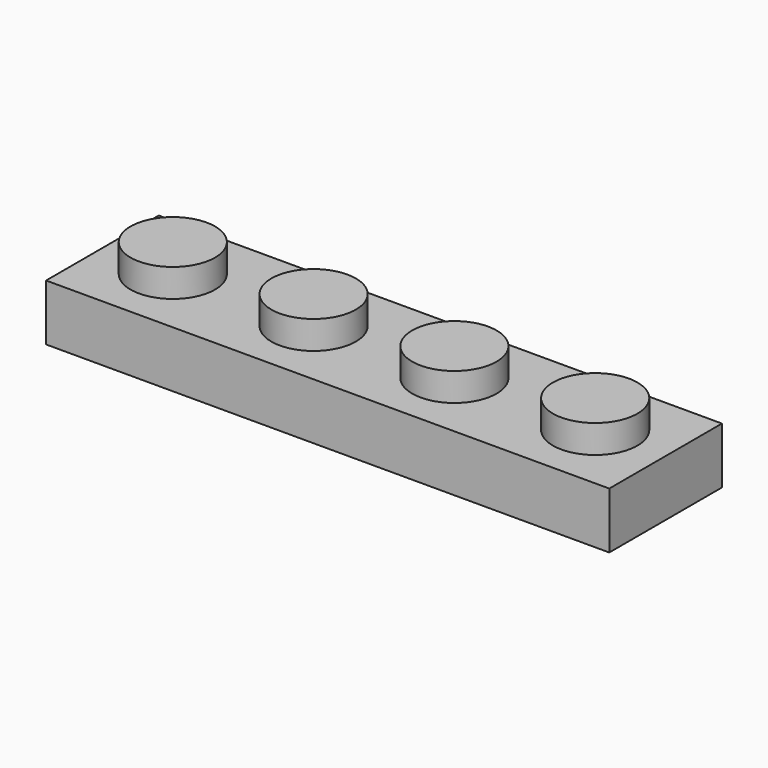
from build123d import *

# Parameters (mm, degrees)
F0_W     = 32
F0_H     = 8
F0_R     = 2.4
F0_R_2   = 1.6
F1_DEPTH = 3.2
F2_T     = -1.6
F3_DEPTH = 1.6
F4_START = 3.2
F4_DEPTH = 1.6


with BuildPart() as f1:
    # F0 (on Top) → F1 (new body)
    with BuildSketch(Plane.XY):
        Rectangle(F0_W, F0_H)
        with Locations((-12, 0)):
            Circle(F0_R, mode=Mode.SUBTRACT)
        with BuildLine():
            ThreePointArc((-6.4, 0), (-8, -1.6), (-9.6, 0))
            ThreePointArc((-9.6, 0), (-8, 1.6), (-6.4, 0))
        make_face(mode=Mode.SUBTRACT)
        with BuildLine():
            ThreePointArc((-1.6, 0), (-4, -2.4), (-6.4, 0))
            ThreePointArc((-6.4, 0), (-4, 2.4), (-1.6, 0))
        make_face(mode=Mode.SUBTRACT)
        with BuildLine():
            ThreePointArc((1.6, 0), (0, -1.6), (-1.6, 0))
            ThreePointArc((-1.6, 0), (0, 1.6), (1.6, 0))
        make_face(mode=Mode.SUBTRACT)
        with BuildLine():
            ThreePointArc((6.4, 0), (4, -2.4), (1.6, 0))
            ThreePointArc((1.6, 0), (4, 2.4), (6.4, 0))
        make_face(mode=Mode.SUBTRACT)
        with BuildLine():
            ThreePointArc((9.6, 0), (8, -1.6), (6.4, 0))
            ThreePointArc((6.4, 0), (8, 1.6), (9.6, 0))
        make_face(mode=Mode.SUBTRACT)
        with BuildLine():
            ThreePointArc((14.4, 0), (12, -2.4), (9.6, 0))
            ThreePointArc((9.6, 0), (12, 2.4), (14.4, 0))
        make_face(mode=Mode.SUBTRACT)
        with Locations((-12, 0)):
            Circle(F0_R)
        with Locations((-12, 0)):
            Circle(F0_R_2, mode=Mode.SUBTRACT)
        with BuildLine():
            ThreePointArc((-1.6, 0), (-4, 2.4), (-6.4, 0))
            ThreePointArc((-6.4, 0), (-4, -2.4), (-1.6, 0))
        make_face()
        with Locations((-4, 0)):
            Circle(F0_R_2, mode=Mode.SUBTRACT)
        with BuildLine():
            ThreePointArc((6.4, 0), (4, 2.4), (1.6, 0))
            ThreePointArc((1.6, 0), (4, -2.4), (6.4, 0))
        make_face()
        with Locations((4, 0)):
            Circle(F0_R_2, mode=Mode.SUBTRACT)
        with BuildLine():
            ThreePointArc((14.4, 0), (12, 2.4), (9.6, 0))
            ThreePointArc((9.6, 0), (12, -2.4), (14.4, 0))
        make_face()
        with Locations((12, 0)):
            Circle(F0_R_2, mode=Mode.SUBTRACT)
        with Locations((-12, 0)):
            Circle(F0_R_2)
        with BuildLine():
            ThreePointArc((-6.4, 0), (-8, 1.6), (-9.6, 0))
            ThreePointArc((-9.6, 0), (-8, -1.6), (-6.4, 0))
        make_face()
        with Locations((-4, 0)):
            Circle(F0_R_2)
        with BuildLine():
            ThreePointArc((1.6, 0), (0, 1.6), (-1.6, 0))
            ThreePointArc((-1.6, 0), (0, -1.6), (1.6, 0))
        make_face()
        with Locations((4, 0)):
            Circle(F0_R_2)
        with BuildLine():
            ThreePointArc((9.6, 0), (8, 1.6), (6.4, 0))
            ThreePointArc((6.4, 0), (8, -1.6), (9.6, 0))
        make_face()
        with Locations((12, 0)):
            Circle(F0_R_2)
    extrude(amount=F1_DEPTH)

    # F2
    f2_openings = [f1.faces().sort_by_distance(p)[0] for p in [
        (0, 0, 0),
    ]]
    offset(amount=F2_T, openings=f2_openings)

    # F0 (on Top) → F3 (join, through all)
    with BuildSketch(Plane.XY):
        with BuildLine():
            ThreePointArc((-6.4, 0), (-8, 1.6), (-9.6, 0))
            ThreePointArc((-9.6, 0), (-8, -1.6), (-6.4, 0))
        make_face()
        with BuildLine():
            ThreePointArc((1.6, 0), (0, 1.6), (-1.6, 0))
            ThreePointArc((-1.6, 0), (0, -1.6), (1.6, 0))
        make_face()
        with BuildLine():
            ThreePointArc((9.6, 0), (8, 1.6), (6.4, 0))
            ThreePointArc((6.4, 0), (8, -1.6), (9.6, 0))
        make_face()
    extrude(amount=F3_DEPTH)

    # F0 (on Top) → F4 (join)
    with BuildSketch(Plane.XY.offset(F4_START)):
        with Locations((-12, 0)):
            Circle(F0_R)
        with Locations((-12, 0)):
            Circle(F0_R_2, mode=Mode.SUBTRACT)
        with BuildLine():
            ThreePointArc((-1.6, 0), (-4, 2.4), (-6.4, 0))
            ThreePointArc((-6.4, 0), (-4, -2.4), (-1.6, 0))
        make_face()
        with Locations((-4, 0)):
            Circle(F0_R_2, mode=Mode.SUBTRACT)
        with BuildLine():
            ThreePointArc((6.4, 0), (4, 2.4), (1.6, 0))
            ThreePointArc((1.6, 0), (4, -2.4), (6.4, 0))
        make_face()
        with Locations((4, 0)):
            Circle(F0_R_2, mode=Mode.SUBTRACT)
        with BuildLine():
            ThreePointArc((14.4, 0), (12, 2.4), (9.6, 0))
            ThreePointArc((9.6, 0), (12, -2.4), (14.4, 0))
        make_face()
        with Locations((12, 0)):
            Circle(F0_R_2, mode=Mode.SUBTRACT)
        with Locations((-12, 0)):
            Circle(F0_R_2)
        with Locations((-4, 0)):
            Circle(F0_R_2)
        with Locations((4, 0)):
            Circle(F0_R_2)
        with Locations((12, 0)):
            Circle(F0_R_2)
    extrude(amount=F4_DEPTH)


solid = f1.part
